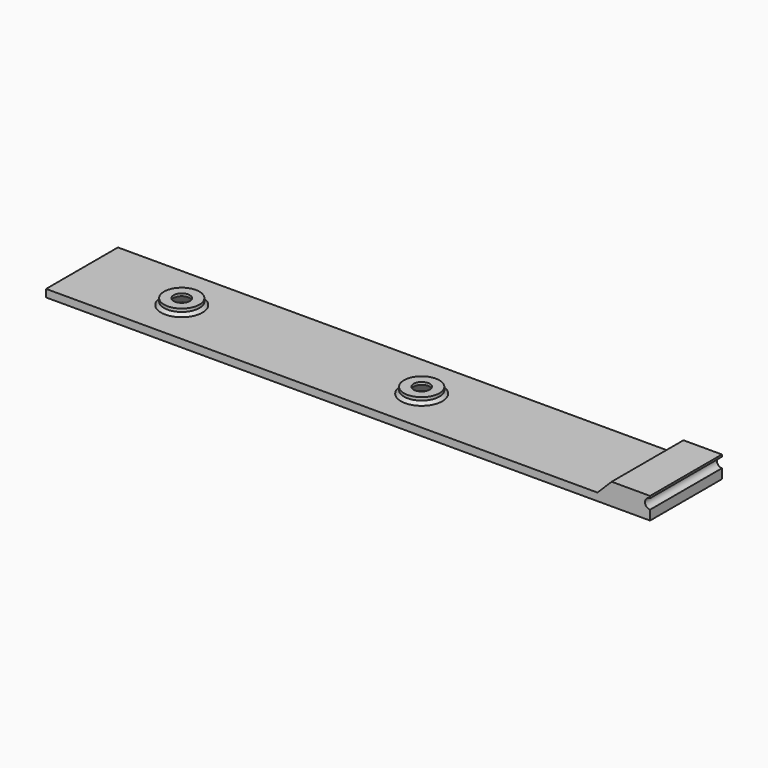
from build123d import *

# Parameters (mm, degrees)
SKETCH_R        = 3.5
SKETCH_R_2      = 1.6
PAD_DEPTH       = 1.2
SKETCH001_W     = 119.586
SKETCH001_H     = 17.78
SKETCH001_R     = 1.6
PAD001_DEPTH    = 1.5
SKETCH002_R     = 3.5
SKETCH002_R_2   = 1.6
PAD002_DEPTH    = 1.2
SKETCH003_R     = 1.6
POCKET_DEPTH    = 2.701
PAD003_DEPTH    = 17.78
CHAMFER_SIZE    = 2.2
CHAMFER002_SIZE = 0.6


with BuildPart() as part:
    # Sketch (on Face1 of CopyPcb_f5c5) → Pad (new body)
    with BuildSketch(Plane(origin=(-93.484762, 101.426, -1.6), x_dir=(1, 0, 0), z_dir=(0, 0, -1))):
        with Locations((113.233762, 92.79)):
            Circle(SKETCH_R)
        with Locations((113.233762, 92.79)):
            Circle(SKETCH_R_2, mode=Mode.SUBTRACT)
    extrude(amount=PAD_DEPTH)

    # Sketch001 (on Face4 of Pad) → Pad001 (join)
    with BuildSketch(Plane(origin=(-93.484762, 101.426, -2.8), x_dir=(1, 0, 0), z_dir=(0, 0, -1))):
        with Locations((153.277762, 92.79)):
            Rectangle(SKETCH001_W, SKETCH001_H)
        with Locations((113.233762, 92.79)):
            Circle(SKETCH001_R, mode=Mode.SUBTRACT)
    extrude(amount=PAD001_DEPTH)

    # Sketch002 (on Face3 of Pad001) → Pad002 (join)
    with BuildSketch(Plane(origin=(-93.484762, 101.426, -2.8), x_dir=(1, 0, 0), z_dir=(0, 0, 1))):
        with Locations((160.733762, -92.79)):
            Circle(SKETCH002_R)
        with Locations((160.733762, -92.79)):
            Circle(SKETCH002_R_2, mode=Mode.SUBTRACT)
    extrude(amount=PAD002_DEPTH)

    # Sketch003 (on Face11 of Pad002) → Pocket (cut, through all)
    with BuildSketch(Plane(origin=(-93.484762, 101.426, -4.3), x_dir=(1, 0, 0), z_dir=(0, 0, -1))):
        with Locations((160.733762, 92.79)):
            Circle(SKETCH003_R)
    extrude(amount=-POCKET_DEPTH, mode=Mode.SUBTRACT)

    # Sketch004 (on Face6 of Pocket) → Pad003 (join)
    with BuildSketch(Plane(origin=(-93.484762, -0.254, -1.6), x_dir=(1, 0, 0), z_dir=(0, -1, 0))):
        with BuildLine():
            Line((202.656762, -1.2), (205.456762, 1.6))
            Line((205.456762, 1.6), (213.070762, 1.6))
            Line((213.070762, 1.2), (213.070762, 1.6))
            ThreePointArc((213.070762, 1.2), (212.070762, 0.2), (213.070762, -0.8))
            Line((213.070762, -0.8), (213.070762, -1.2))
            Line((213.070762, -1.2), (202.656762, -1.2))
        make_face()
    extrude(amount=-PAD003_DEPTH)

    # Chamfer
    chamfer_edges = [part.edges().sort_by_distance(p)[0] for p in [
        (18.149, 8.636, -4.3),
        (65.649, 8.636, -4.3),
    ]]
    chamfer(chamfer_edges, length=CHAMFER_SIZE)

    # Chamfer002
    chamfer002_edges = [part.edges().sort_by_distance(p)[0] for p in [
        (16.249, 8.636, -2.8),
        (63.749, 8.636, -2.8),
    ]]
    chamfer(chamfer002_edges, length=CHAMFER002_SIZE)


solid = part.part
